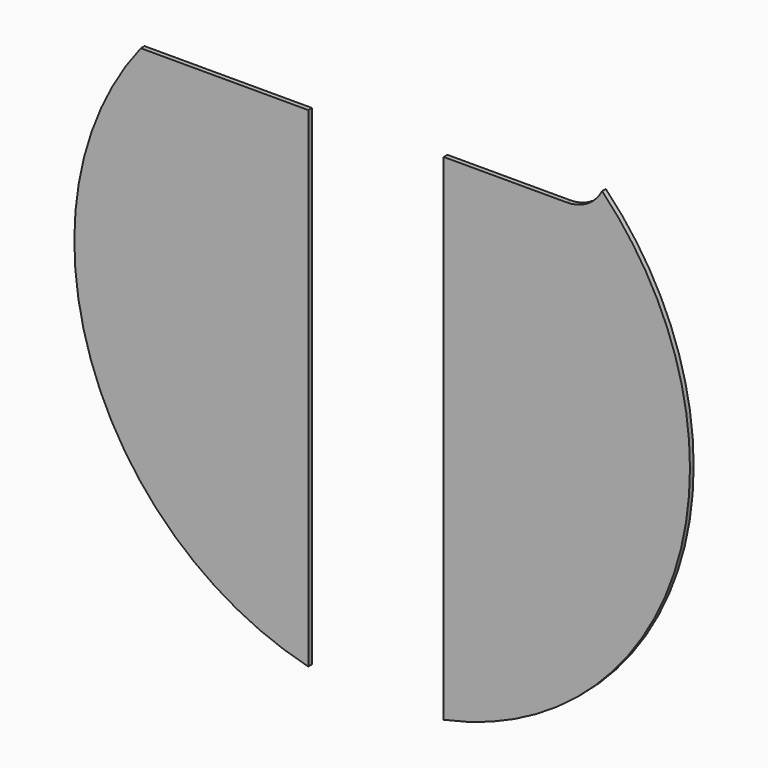
from build123d import *

# Parameters (mm, degrees)
F1_DEPTH = 3
F2_DEPTH = 3


with BuildPart() as f1:
    # F0 (on Front) → F1 (new body)
    with BuildSketch(Plane.XZ):
        with BuildLine():
            ThreePointArc((40, -195.959179), (154.919334, -126.491106), (200, 0))
            ThreePointArc((200, 0), (185.18274, 75.547023), (142.926473, 139.900047))
            ThreePointArc((142.926473, 139.900047), (133.416137, 129.717968), (120, 125.959179))
            Line((120, 125.959179), (40, 125.959179))
            Line((40, 125.959179), (40, 0))
            Line((40, 0), (40, -195.959179))
        make_face()
    extrude(amount=F1_DEPTH)


with BuildPart() as f2:
    # F0 (on Front) → F2 (new body)
    with BuildSketch(Plane.XZ):
        with BuildLine():
            ThreePointArc((-156.798089, 124.154578), (-189.250479, -64.685826), (-48, -194.154578))
            Line((-48, -194.154578), (-48, 0))
            Line((-48, 0), (-48, 124.154578))
            Line((-48, 124.154578), (-156.798089, 124.154578))
        make_face()
    extrude(amount=F2_DEPTH)


solid = Compound([f1.part, f2.part])
